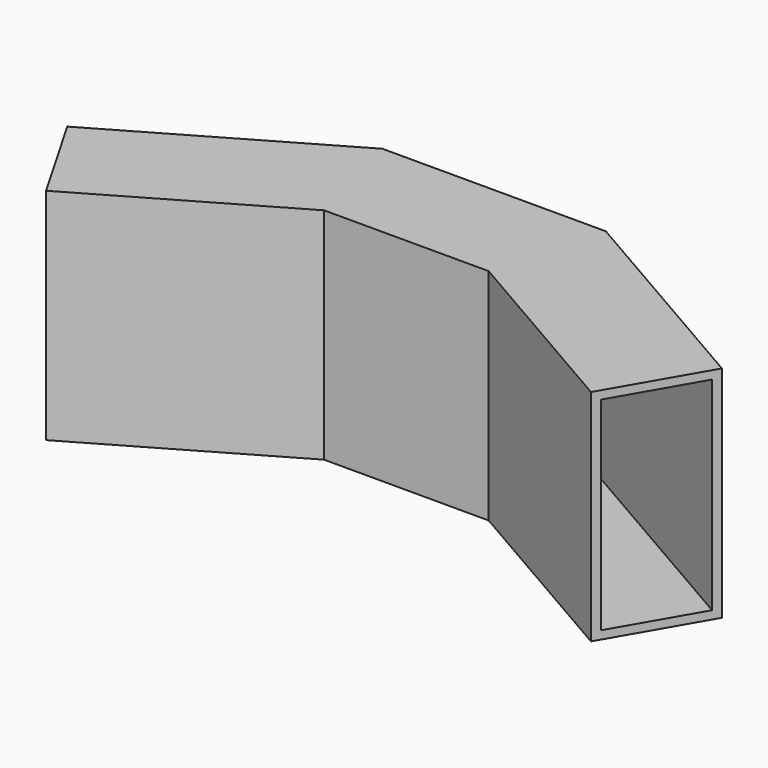
from build123d import *

# Parameters (mm, degrees)
F1_DEPTH = 40
F2_T     = -1.5


with BuildPart() as f1:
    # F0 (on Top) → F1 (new body)
    with BuildSketch(Plane.XY):
        Polygon((-15, 0), (0, 0), (15, 0), (49.6410161514, -20), (59.6410161514, -2.6794919243), (20.3589838486, 20), (0, 20), (-20.3589838486, 20), (-59.6410161514, -2.6794919243), (-49.6410161514, -20), align=None)
    extrude(amount=-F1_DEPTH)

    # F2
    f2_openings = [f1.faces().sort_by_distance(p)[0] for p in [
        (-54.641016, -11.339746, -20),
        (54.641016, -11.339746, -20),
    ]]
    offset(amount=F2_T, openings=f2_openings, kind=Kind.INTERSECTION)


solid = f1.part
